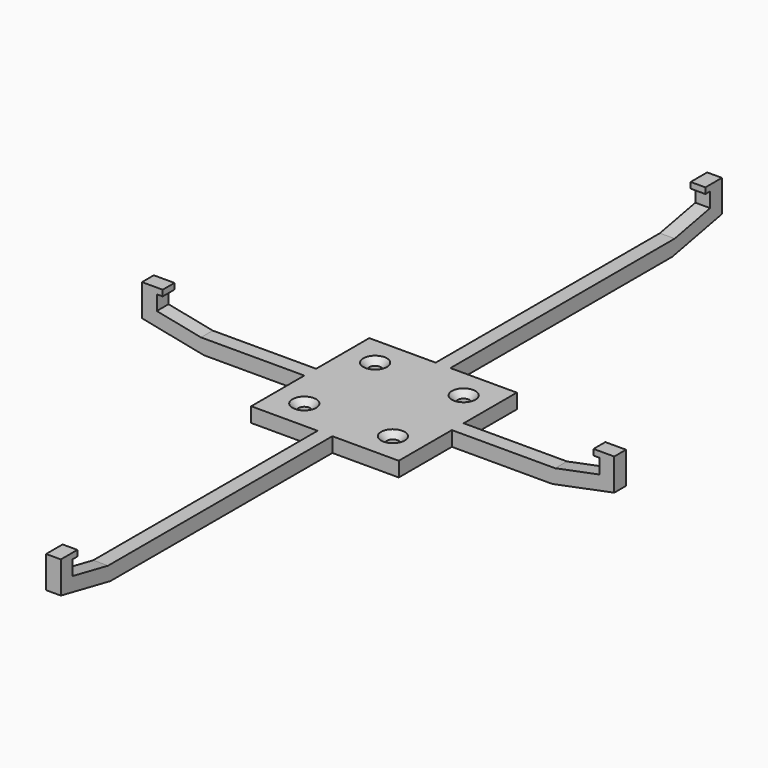
from build123d import *

# Parameters (mm, degrees)
F1_DEPTH       = 2.5
F3_DEPTH       = 2.5
F4_W           = 50
F4_H           = 50
F5_DEPTH       = 5
F7_D           = 4
F7_CSINK_D     = 8
F7_CSINK_ANGLE = 90


with BuildPart() as f1:
    # F0 (on Front) → F1 (new body, symmetric)
    with BuildSketch(Plane.XZ):
        Polygon((-75, 3), (-75, 8), (-73, 8), (-73, 10), (-80, 10), (-80, -0.8), (-59, -5), (59, -5), (80, -0.8), (80, 10), (73, 10), (73, 8), (75, 8), (75, 3), (60, 0), (-60, 0), align=None)
    extrude(amount=F1_DEPTH, both=True)

    # F2 (on Right) → F3 (join, symmetric)
    with BuildSketch(Plane.YZ):
        Polygon((-135, 3), (-135, 8), (-133, 8), (-133, 10), (-140, 10), (-140, -0.8), (-119, -5), (119, -5), (140, -0.8), (140, 10), (133, 10), (133, 8), (135, 8), (135, 3), (120, 0), (-120, 0), align=None)
    extrude(amount=F3_DEPTH, both=True)

    # F4 (on Top) → F5 (join)
    with BuildSketch(Plane.XY):
        Rectangle(F4_W, F4_H)
    extrude(amount=-F5_DEPTH)

    # F7 (through all)
    with Locations(Plane.XY):
        with Locations((15, -15), (-15, -15), (-15, 15), (15, 15)):
            CounterSinkHole(F7_D / 2, F7_CSINK_D / 2, counter_sink_angle=F7_CSINK_ANGLE)


solid = f1.part
